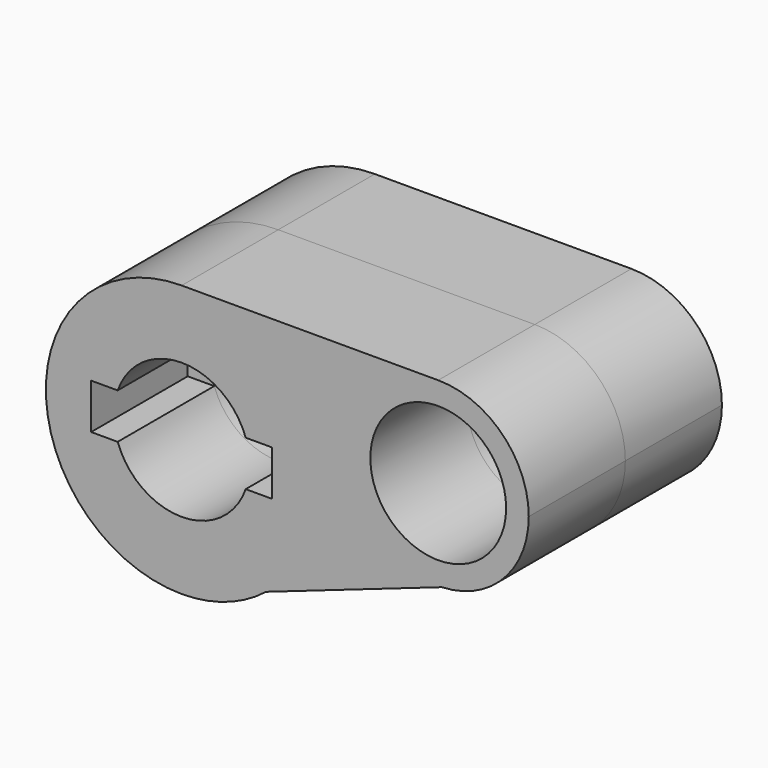
from build123d import *

# Parameters (mm, degrees)
F0_R     = 14.2875
F1_DEPTH = 25.4
F2_DEPTH = 25.4


with BuildPart() as f1:
    # F0 (on Front) → F1 (new body)
    with BuildSketch(Plane.XZ):
        with BuildLine():
            ThreePointArc((0, 28.575), (20.2055762724, 20.2055762724), (28.575, 0))
            ThreePointArc((28.575, 0), (25.7290056285, -12.431769559), (17.7579295281, -22.3871964273))
            Line((17.7579295281, -22.3871964273), (54.7110378477, -9.5107754842))
            ThreePointArc((54.7110378477, -9.5107754842), (34.9285564609, 9.1569123575), (53.975, 28.575))
            Line((53.975, 28.575), (0, 28.575))
        make_face()
        with BuildLine():
            ThreePointArc((17.7579295281, -22.3871964273), (25.7290056285, -12.431769559), (28.575, 0))
            ThreePointArc((28.575, 0), (20.2055762724, 20.2055762724), (0, 28.575))
            ThreePointArc((0, 28.575), (-28.575, 0), (0, -28.575))
            Line((0, -28.575), (17.7579295281, -22.3871964273))
        make_face()
        with BuildLine():
            ThreePointArc((-13.4703841816, 4.7625), (0, 14.2875), (13.4703841816, 4.7625))
            Line((13.4703841816, 4.7625), (19.05, 4.7625))
            Line((19.05, 4.7625), (19.05, -4.7625))
            Line((19.05, -4.7625), (13.4703841816, -4.7625))
            ThreePointArc((13.4703841816, -4.7625), (0, -14.2875), (-13.4703841816, -4.7625))
            Line((-13.4703841816, -4.7625), (-19.05, -4.7625))
            Line((-19.05, -4.7625), (-19.05, 4.7625))
            Line((-19.05, 4.7625), (-13.4703841816, 4.7625))
        make_face(mode=Mode.SUBTRACT)
        with BuildLine():
            ThreePointArc((73.025, 9.525), (67.4453841816, 22.9953841816), (53.975, 28.575))
            ThreePointArc((53.975, 28.575), (34.9285564609, 9.1569123575), (54.7110378477, -9.5107754842))
            ThreePointArc((54.7110378477, -9.5107754842), (67.703146652, -3.6825921159), (73.025, 9.525))
        make_face()
        with Locations((53.975, 9.525)):
            Circle(F0_R, mode=Mode.SUBTRACT)
        with BuildLine():
            ThreePointArc((13.4703841816, 4.7625), (14.081739421, 2.416044521), (14.2875, 0))
            ThreePointArc((14.2875, 0), (14.081739421, -2.416044521), (13.4703841816, -4.7625))
            Line((13.4703841816, -4.7625), (19.05, -4.7625))
            Line((19.05, -4.7625), (19.05, 4.7625))
            Line((19.05, 4.7625), (13.4703841816, 4.7625))
        make_face()
        with BuildLine():
            ThreePointArc((13.4703841816, 4.7625), (14.081739421, 2.416044521), (14.2875, 0))
            ThreePointArc((14.2875, 0), (14.081739421, -2.416044521), (13.4703841816, -4.7625))
            Line((13.4703841816, -4.7625), (19.05, -4.7625))
            Line((19.05, -4.7625), (19.05, 4.7625))
            Line((19.05, 4.7625), (13.4703841816, 4.7625))
        make_face()
        with BuildLine():
            ThreePointArc((-13.4703841816, -4.7625), (-14.2875, 0), (-13.4703841816, 4.7625))
            Line((-13.4703841816, 4.7625), (-19.05, 4.7625))
            Line((-19.05, 4.7625), (-19.05, -4.7625))
            Line((-19.05, -4.7625), (-13.4703841816, -4.7625))
        make_face()
        with BuildLine():
            ThreePointArc((0, -28.575), (9.4025657958, -26.9837429104), (17.7579295281, -22.3871964273))
            Line((17.7579295281, -22.3871964273), (0, -28.575))
        make_face()
    extrude(amount=-F1_DEPTH)


with BuildPart() as f2:
    # F0 (on Front) → F2 (new body)
    with BuildSketch(Plane.XZ):
        with BuildLine():
            ThreePointArc((17.7579295281, -22.3871964273), (25.7290056285, -12.431769559), (28.575, 0))
            ThreePointArc((28.575, 0), (20.2055762724, 20.2055762724), (0, 28.575))
            ThreePointArc((0, 28.575), (-28.575, 0), (0, -28.575))
            Line((0, -28.575), (17.7579295281, -22.3871964273))
        make_face()
        with BuildLine():
            ThreePointArc((-13.4703841816, 4.7625), (0, 14.2875), (13.4703841816, 4.7625))
            Line((13.4703841816, 4.7625), (19.05, 4.7625))
            Line((19.05, 4.7625), (19.05, -4.7625))
            Line((19.05, -4.7625), (13.4703841816, -4.7625))
            ThreePointArc((13.4703841816, -4.7625), (0, -14.2875), (-13.4703841816, -4.7625))
            Line((-13.4703841816, -4.7625), (-19.05, -4.7625))
            Line((-19.05, -4.7625), (-19.05, 4.7625))
            Line((-19.05, 4.7625), (-13.4703841816, 4.7625))
        make_face(mode=Mode.SUBTRACT)
        with BuildLine():
            ThreePointArc((0, 28.575), (20.2055762724, 20.2055762724), (28.575, 0))
            ThreePointArc((28.575, 0), (25.7290056285, -12.431769559), (17.7579295281, -22.3871964273))
            Line((17.7579295281, -22.3871964273), (54.7110378477, -9.5107754842))
            ThreePointArc((54.7110378477, -9.5107754842), (34.9285564609, 9.1569123575), (53.975, 28.575))
            Line((53.975, 28.575), (0, 28.575))
        make_face()
        with BuildLine():
            ThreePointArc((0, -28.575), (9.4025657958, -26.9837429104), (17.7579295281, -22.3871964273))
            Line((17.7579295281, -22.3871964273), (0, -28.575))
        make_face()
        with BuildLine():
            ThreePointArc((73.025, 9.525), (67.4453841816, 22.9953841816), (53.975, 28.575))
            ThreePointArc((53.975, 28.575), (34.9285564609, 9.1569123575), (54.7110378477, -9.5107754842))
            ThreePointArc((54.7110378477, -9.5107754842), (67.703146652, -3.6825921159), (73.025, 9.525))
        make_face()
        with Locations((53.975, 9.525)):
            Circle(F0_R, mode=Mode.SUBTRACT)
    extrude(amount=F2_DEPTH)


solid = Compound([f1.part, f2.part])
